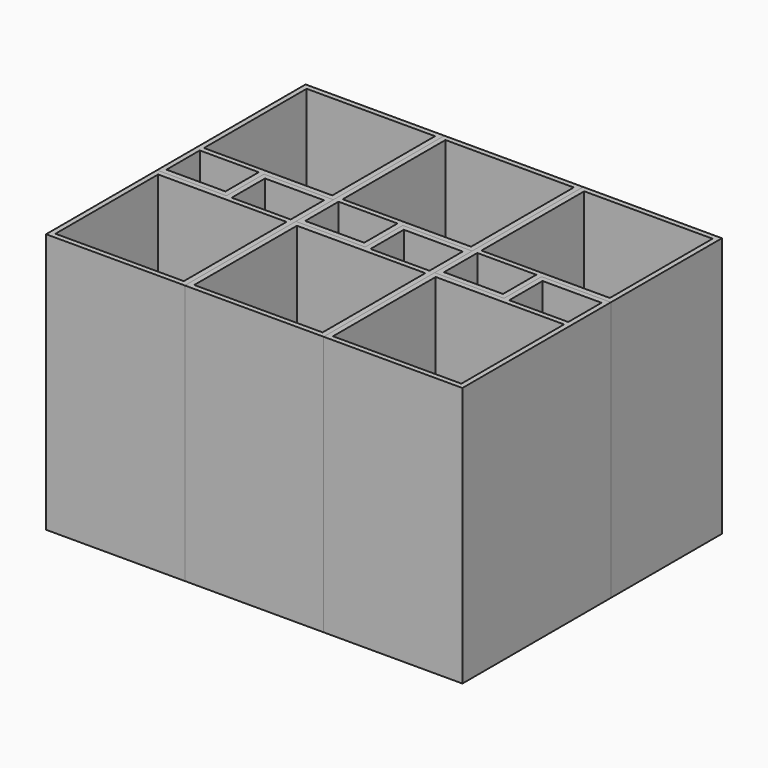
from build123d import *

# Parameters (mm, degrees)
F0_W     = 40
F0_H     = 40
F1_DEPTH = 75
F2_T     = -1.5
F3_W     = 20
F3_H     = 13.5
F4_DEPTH = 75
F5_W     = 17
F5_H     = 12
F6_DEPTH = 73.5
F8_ANGLE = 180


with BuildPart() as f1:
    # F0 (on Top) → F1 (new body)
    with BuildSketch(Plane.XY):
        Rectangle(F0_W, F0_H)
    extrude(amount=F1_DEPTH)

    # F2
    f2_openings = [f1.faces().sort_by_distance(p)[0] for p in [
        (0, 0, 75),
    ]]
    offset(amount=F2_T, openings=f2_openings)

    # F3 (on Top) → F4 (join, through all)
    with BuildSketch(Plane.XY):
        with Locations((-10, -26.75)):
            Rectangle(F3_W, F3_H)
    extrude(amount=F4_DEPTH)

    # F5 (on face) → F6 (cut, through all)
    with BuildSketch(Plane.XY.offset(75)):
        with Locations((-10, -26)):
            Rectangle(F5_W, F5_H)
    extrude(amount=-F6_DEPTH, mode=Mode.SUBTRACT)


with BuildPart() as f7_1:
    # F7: copy of F1
    add(f1.part.moved(Location((40, 0, 0))))


with BuildPart() as f8_1:
    # F8: copy of F1
    add(f1.part.rotate(Axis((-20, 20, 37.5), (0, 0, -1)), F8_ANGLE))


with BuildPart() as f8_1_1:
    # F9: moved
    add(f8_1.part.moved(Location((40, -93.5, 0))))


with BuildPart() as f10_1:
    # F10: copy of F8_1
    add(f8_1_1.part.moved(Location((40, 0, 0))))


with BuildPart() as f11_1:
    # F11: copy of F1
    add(f1.part.moved(Location((80, 0, 0))))


with BuildPart() as f12_1:
    # F12: copy of F8_1
    add(f8_1_1.part.moved(Location((80, 0, 0))))


solid = Compound([f1.part, f7_1.part, f8_1_1.part, f10_1.part, f11_1.part, f12_1.part])
